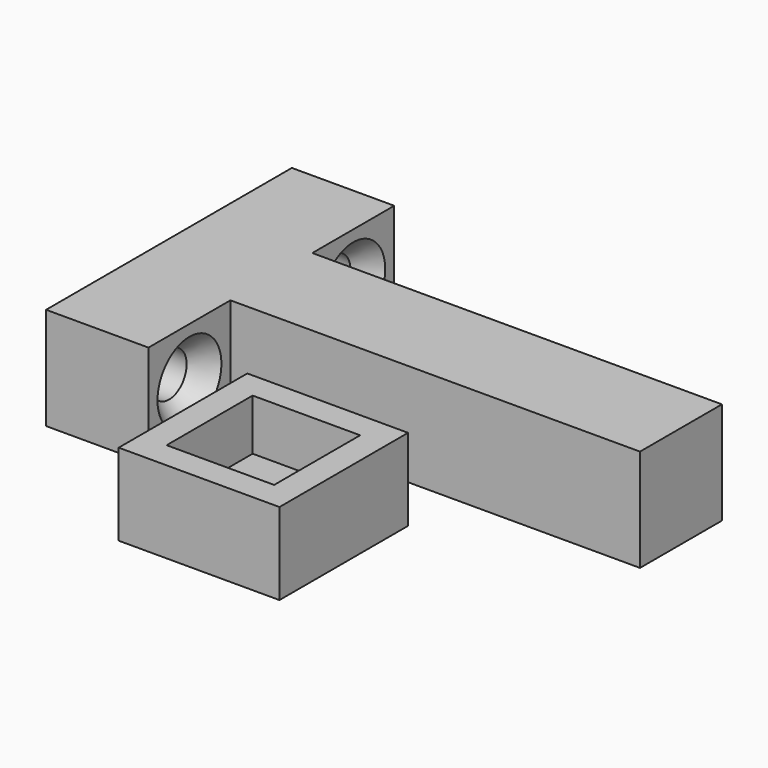
from build123d import *

# Parameters (mm, degrees)
F0_W           = 40
F0_H           = 10
F1_DEPTH       = 5
F3_D           = 4.318
F3_DEPTH       = 10
F3_CSINK_D     = 7.7978
F3_CSINK_ANGLE = 82
F3_TIP         = 1.2972580765
F5_D           = 4.318
F5_DEPTH       = 10
F5_CSINK_D     = 7.7978
F5_CSINK_ANGLE = 82
F5_TIP         = 1.2972580765
F6_W           = 10.5
F6_H           = 10.5
F7_DEPTH       = 3
F8_D           = 4.318
F8_DEPTH       = 4
F8_TIP         = 1.2972580765
F6_W_2         = 15.698019802
F6_H_2         = 15.698019802
F9_DEPTH       = 8


with BuildPart() as f1:
    # F0 (on Top) → F1 (new body, symmetric)
    with BuildSketch(Plane.XY):
        Rectangle(F0_W, F0_H)
        Polygon((-20, -5), (-20, 5), (-20, 15), (-30, 15), (-30, -15), (-20, -15), align=None)
    extrude(amount=F1_DEPTH, both=True)

    # F3
    with Locations(Plane.YZ.offset(-20)):
        with Locations((10, 0)):
            CounterSinkHole(F3_D / 2, F3_CSINK_D / 2, depth=F3_DEPTH, counter_sink_angle=F3_CSINK_ANGLE)
            with Locations((0, 0, -(F3_DEPTH + F3_TIP / 2))):  # 118° drill point
                Cone(0, F3_D / 2, F3_TIP, mode=Mode.SUBTRACT)

    # F5
    with Locations(Plane.YZ.offset(-20)):
        with Locations((-10, 0)):
            CounterSinkHole(F5_D / 2, F5_CSINK_D / 2, depth=F5_DEPTH, counter_sink_angle=F5_CSINK_ANGLE)
            with Locations((0, 0, -(F5_DEPTH + F5_TIP / 2))):  # 118° drill point
                Cone(0, F5_D / 2, F5_TIP, mode=Mode.SUBTRACT)


with BuildPart() as f7:
    # F6 (on Top) → F7 (new body)
    with BuildSketch(Plane.XY):
        with Locations((0, -25.9736826611)):
            Rectangle(F6_W, F6_H)
    extrude(amount=F7_DEPTH)

    # F8
    with Locations(Plane(origin=(0, 0, 0), x_dir=(1, 0, 0), z_dir=(0, 0, -1))):
        with Locations((0, 25.9736826611)):
            Hole(F8_D / 2, depth=F8_DEPTH)
            with Locations((0, 0, -(F8_DEPTH + F8_TIP / 2))):  # 118° drill point
                Cone(0, F8_D / 2, F8_TIP, mode=Mode.SUBTRACT)

    # F6 (on Top) → F9 (join)
    with BuildSketch(Plane.XY):
        with Locations((0, -25.9736826611)):
            Rectangle(F6_W_2, F6_H_2)
        with Locations((0, -25.9736826611)):
            Rectangle(F6_W, F6_H, mode=Mode.SUBTRACT)
    extrude(amount=F9_DEPTH)


solid = Compound([f1.part, f7.part])
